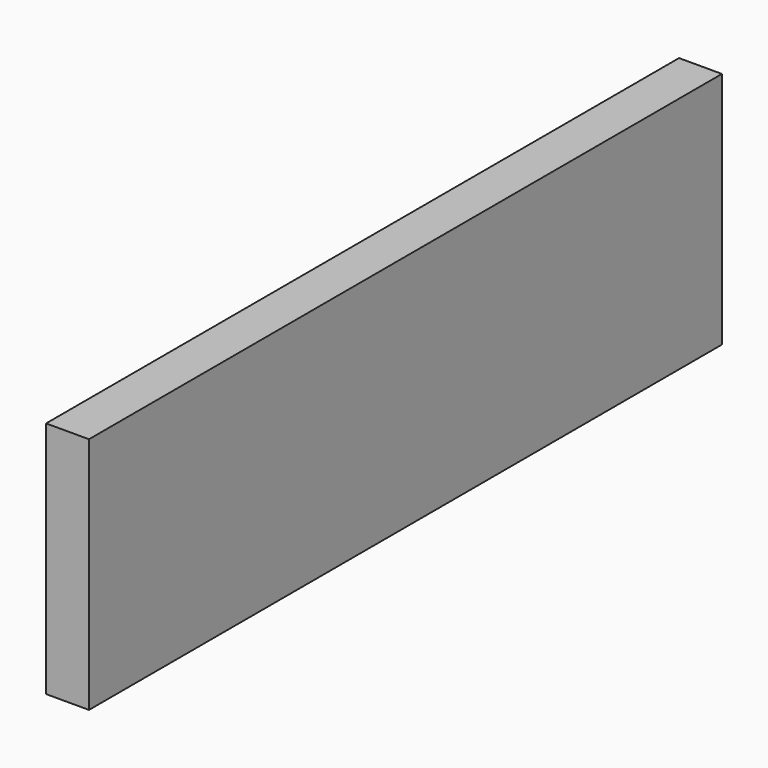
from build123d import *

# Parameters (mm, degrees)
SKETCH_W  = 332
SKETCH_H  = 100
PAD_DEPTH = 18


with BuildPart() as part:
    # Sketch → Pad (new body)
    with BuildSketch(Plane.YZ):
        with Locations((-166, 50)):
            Rectangle(SKETCH_W, SKETCH_H)
    extrude(amount=PAD_DEPTH)


solid = part.part
